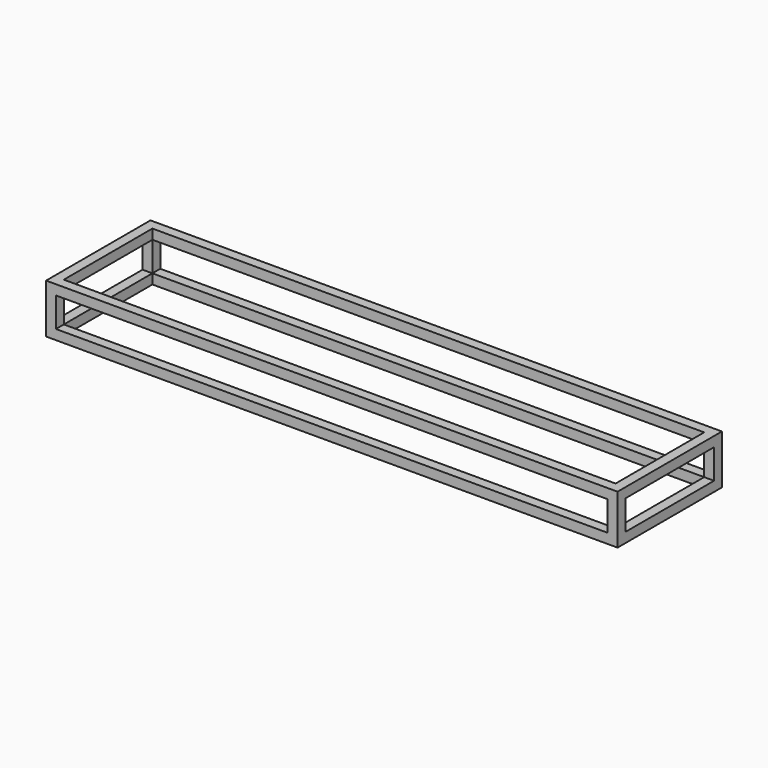
from build123d import *

# Parameters (mm, degrees)
F0_W     = 1450
F0_H     = 125
F0_W_2   = 1400
F0_H_2   = 75
F1_DEPTH = 331
F2_W     = 1400
F2_H     = 281
F3_DEPTH = 377
F4_W     = 281
F4_H     = 75
F5_DEPTH = 1538


with BuildPart() as f1:
    # F0 (on Front) → F1 (new body)
    with BuildSketch(Plane.XZ):
        with Locations((-725, 62.5)):
            Rectangle(F0_W, F0_H)
        with Locations((-725, 62.5)):
            Rectangle(F0_W_2, F0_H_2, mode=Mode.SUBTRACT)
    extrude(amount=-F1_DEPTH)

    # F2 (on Top) → F3 (cut)
    with BuildSketch(Plane.XY):
        with Locations((-725, 165.5)):
            Rectangle(F2_W, F2_H)
    extrude(amount=F3_DEPTH, mode=Mode.SUBTRACT)

    # F4 (on Right) → F5 (cut)
    with BuildSketch(Plane.YZ):
        with Locations((165.5, 62.5)):
            Rectangle(F4_W, F4_H)
    extrude(amount=-F5_DEPTH, mode=Mode.SUBTRACT)


solid = f1.part
